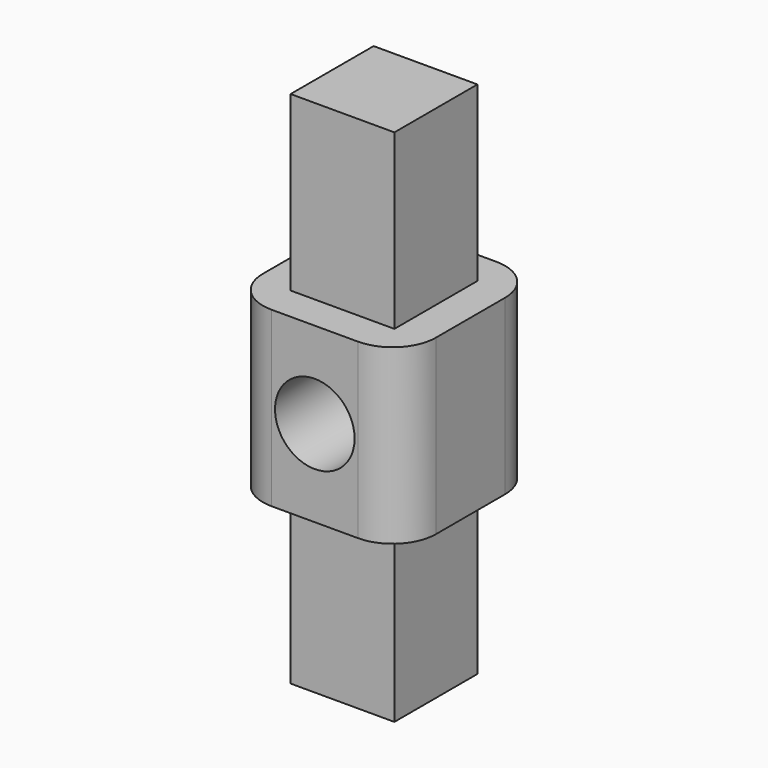
from build123d import *

# Parameters (mm, degrees)
F1_DEPTH = 25.4
F3_DEPTH = 25.4
F5_R     = 6.35
F7_D     = 11.684
F7_DEPTH = 254


with BuildPart() as f1:
    # F0 (on Front) → F1 (new body)
    with BuildSketch(Plane.XZ):
        Polygon((-12.7, 0), (0, 0), (12.7, 0), (12.7, 12.7), (0, 12.7), (-12.7, 12.7), align=None)
    extrude(amount=F1_DEPTH)

    # F2 (on face) → F3 (join)
    with BuildSketch(Plane.XY.offset(12.7)):
        Polygon((7.62, -5.08), (0, -5.08), (0, -12.7), (0, -20.32), (7.62, -20.32), align=None)
        Polygon((0, -12.7), (0, -5.08), (-7.62, -5.08), (-7.62, -20.32), (0, -20.32), align=None)
    extrude(amount=F3_DEPTH)

    # F4: F1 across plane


with BuildPart() as f1_1:
    add(f1.part)
    add(f1.part.mirror(Plane.XY))

    # F5
    f5_edges = [f1_1.edges().sort_by_distance(p)[0] for p in [
        (12.7, 0, 0),
        (12.7, -25.4, 0),
        (-12.7, 0, 0),
        (-12.7, -25.4, 0),
    ]]
    fillet(f5_edges, radius=F5_R)

    # F7
    with Locations(Plane(origin=(0, 0, 0), x_dir=(-1, 0, 0), z_dir=(0, 1, 0))):
        with Locations((0, 0)):
            Hole(F7_D / 2, depth=F7_DEPTH)


solid = f1_1.part
